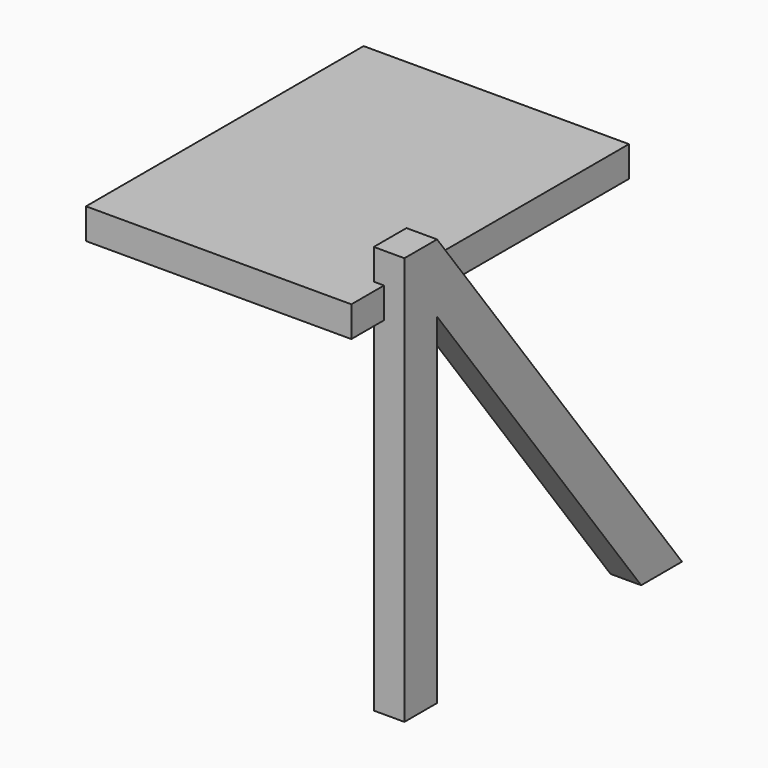
from build123d import *

# Parameters (mm, degrees)
SKETCH_W     = 25.4
SKETCH_H     = 254
PAD_DEPTH    = 19.05
SKETCH002_W  = 165.1
SKETCH002_H  = 215.9
PAD001_DEPTH = 19.05


with BuildPart() as body001:
    # Sketch → Pad (new body)
    with BuildSketch(Plane.YZ):
        with Locations((12.7, 127)):
            Rectangle(SKETCH_W, SKETCH_H)
        Polygon((25.4, 254), (215.9, 0), (184.15, 0), (25.4, 211.666667), align=None)
    extrude(amount=PAD_DEPTH)


with BuildPart() as body001_1:
    # Body001 placement: moved
    add(body001.part.moved(Location((171.45, 0, 0))))


with BuildPart() as body002:
    # Sketch002 → Pad001 (new body)
    with BuildSketch(Plane.XY):
        with Locations((82.55, 107.95)):
            Rectangle(SKETCH002_W, SKETCH002_H)
    extrude(amount=PAD001_DEPTH)


with BuildPart() as body002_1:
    # Body002 placement: moved
    add(body002.part.moved(Location((12.7, -25.4, 215.9))))


solid = Compound([body001_1.part, body002_1.part])
